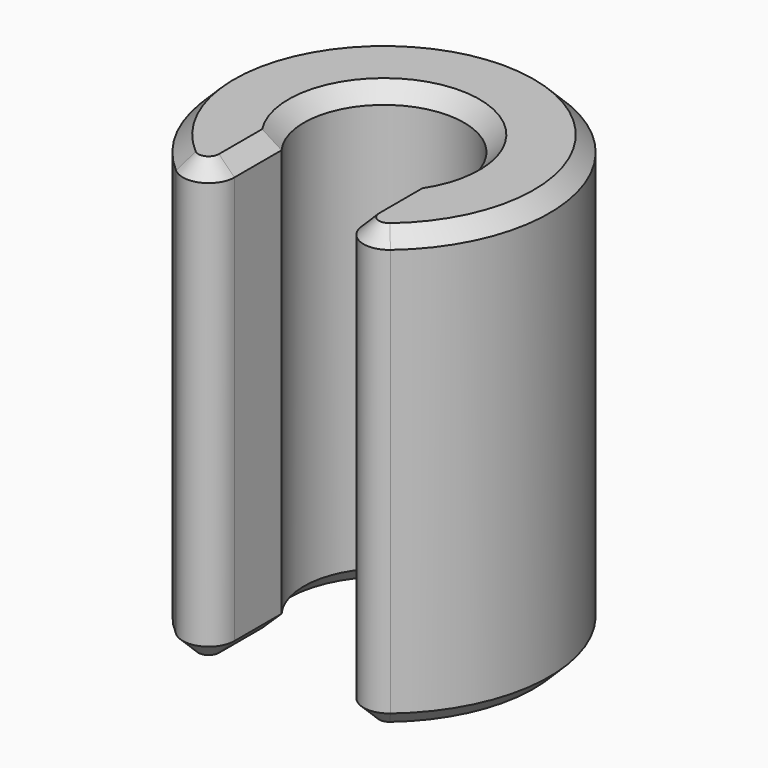
from build123d import *

# Parameters (mm, degrees)
F1_DEPTH = 17
F2_R     = 1
F3_SIZE  = 0.6


with BuildPart() as f1:
    # F0 (on Top) → F1 (new body)
    with BuildSketch(Plane.XY):
        with BuildLine():
            ThreePointArc((-2.5, -1.83303), (0, 3.1), (2.5, -1.83303))
            Line((2.5, -1.83303), (2.5, -5.891519))
            ThreePointArc((2.5, -5.891519), (0, 6.4), (-2.5, -5.891519))
            Line((-2.5, -5.891519), (-2.5, -1.83303))
        make_face()
    extrude(amount=F1_DEPTH)

    # F2
    f2_edges = [f1.edges().sort_by_distance(p)[0] for p in [
        (-2.5, -5.891519, 8.5),
        (2.5, -5.891519, 8.5),
    ]]
    fillet(f2_edges, radius=F2_R)

    # F3
    f3_edges = [f1.edges().sort_by_distance(p)[0] for p in [
        (-2.5, -2.972604, 17),
        (-3.080565, -5.019962, 17),
        (0, 3.1, 17),
        (0, 6.4, 17),
        (2.5, -2.972604, 17),
        (3.080565, -5.019962, 17),
        (-2.5, -2.972604, 0),
        (-3.080565, -5.019962, 0),
        (0, 3.1, 0),
        (0, 6.4, 0),
        (2.5, -2.972604, 0),
        (3.080565, -5.019962, 0),
    ]]
    chamfer(f3_edges, length=F3_SIZE)


solid = f1.part
